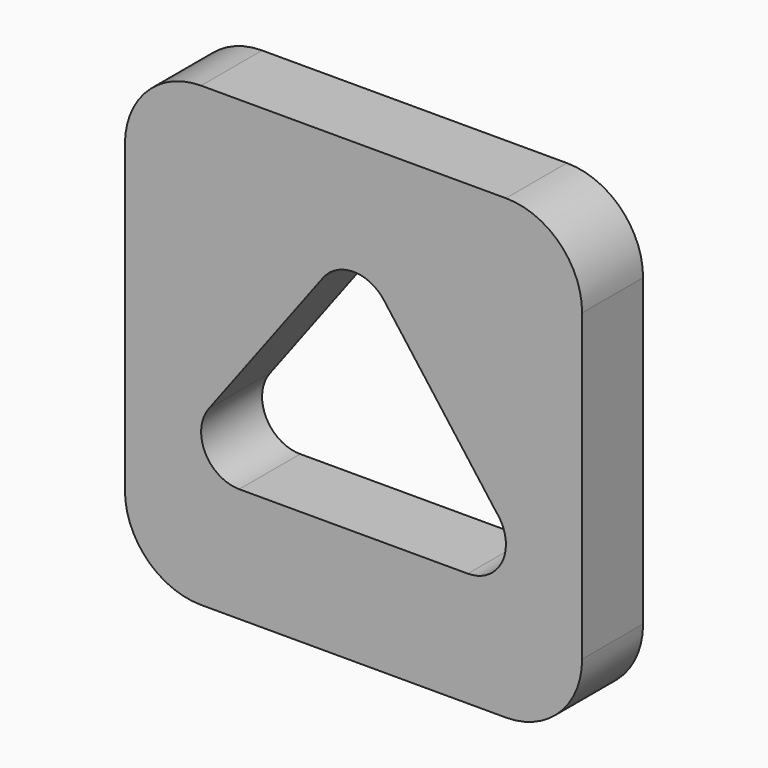
from build123d import *

# Parameters (mm, degrees)
F1_DEPTH = 12.7


with BuildPart() as f1:
    # F0 (on Front) → F1 (new body)
    with BuildSketch(Plane.XZ):
        with BuildLine():
            ThreePointArc((0, 12.7), (3.719744, 3.719744), (12.7, 0))
            Line((12.7, 0), (63.5, 0))
            ThreePointArc((63.5, 0), (72.480256, 3.719744), (76.2, 12.7))
            Line((76.2, 12.7), (76.2, 63.5))
            ThreePointArc((76.2, 63.5), (72.480256, 72.480256), (63.5, 76.2))
            Line((63.5, 76.2), (12.7, 76.2))
            ThreePointArc((12.7, 76.2), (3.719744, 72.480256), (0, 63.5))
            Line((0, 63.5), (0, 12.7))
        make_face()
        with BuildLine():
            ThreePointArc((19.05, 19.05), (13.370387, 22.560194), (13.97, 29.21))
            Line((13.97, 29.21), (33.02, 54.61))
            ThreePointArc((33.02, 54.61), (38.101997, 57.15), (43.182396, 54.606804))
            Line((43.182396, 54.606804), (61.914721, 29.597611))
            ThreePointArc((61.914721, 29.597611), (62.232396, 29.206804), (62.5181, 28.79205))
            ThreePointArc((62.5181, 28.79205), (62.711565, 22.335446), (57.15, 19.05))
            Line((57.15, 19.05), (19.05, 19.05))
        make_face(mode=Mode.SUBTRACT)
    extrude(amount=F1_DEPTH)


solid = f1.part
